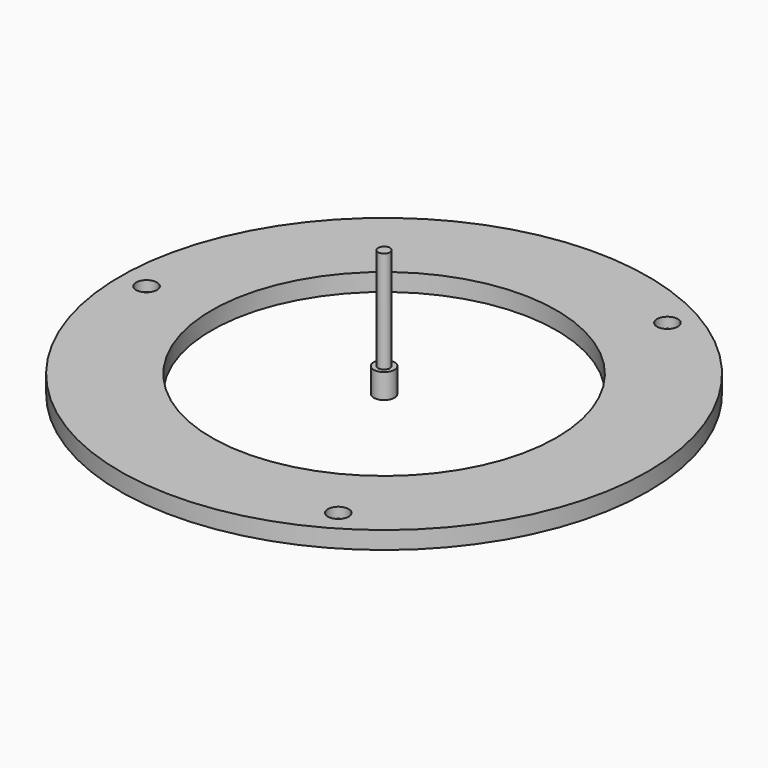
from build123d import *

# Parameters (mm, degrees)
CYLINDER_R               = 2.95
CYLINDER_DEPTH           = 7
CYLINDER001_R            = 1.7
CYLINDER001_DEPTH        = 30
CLONE018_PLACEMENT_ANGLE = 180
ARRAY001_COUNT           = 3
SKETCH005_R              = 75
SKETCH005_R_2            = 49
PAD004_DEPTH             = 5


with BuildPart() as m3bolthead:
    # Cylinder → Cylinder (new body)
    with BuildSketch(Plane.XY):
        Circle(CYLINDER_R)
    extrude(amount=CYLINDER_DEPTH)


with BuildPart() as m3bolt:
    # Cylinder001 → Cylinder001 (new body)
    with BuildSketch(Plane.XY.offset(6)):
        Circle(CYLINDER001_R)
    extrude(amount=CYLINDER001_DEPTH)

    # Fusion: union M3BoltHead
    add(m3bolthead.part)


with BuildPart() as array001:
    # Clone018 base: copy of M3Bolt
    add(m3bolt.part)


with BuildPart() as array001_1:
    # Clone018 placement: moved
    add(array001.part.moved(Location((-67.5, 0, 9))).rotate(Axis((-67.5, 0, 9), (1, 0, 0)), CLONE018_PLACEMENT_ANGLE))

    # Array001: Array001 ×3 about axis
    array001_axis = Axis((0, 0, 0), (0, 0, 1))


with BuildPart() as array001_2:
    add(array001_1.part)
    for i in range(1, ARRAY001_COUNT):
        add(array001_1.part.rotate(array001_axis, i * 360 / ARRAY001_COUNT))


with BuildPart() as obj1:
    # Sketch005 → Pad004 (new body)
    with BuildSketch(Plane.XY):
        Circle(SKETCH005_R)
        Circle(SKETCH005_R_2, mode=Mode.SUBTRACT)
    extrude(amount=PAD004_DEPTH)

    # Cut006: cut Array001
    add(array001_2.part, mode=Mode.SUBTRACT)


solid = Compound([m3bolt.part, obj1.part])
